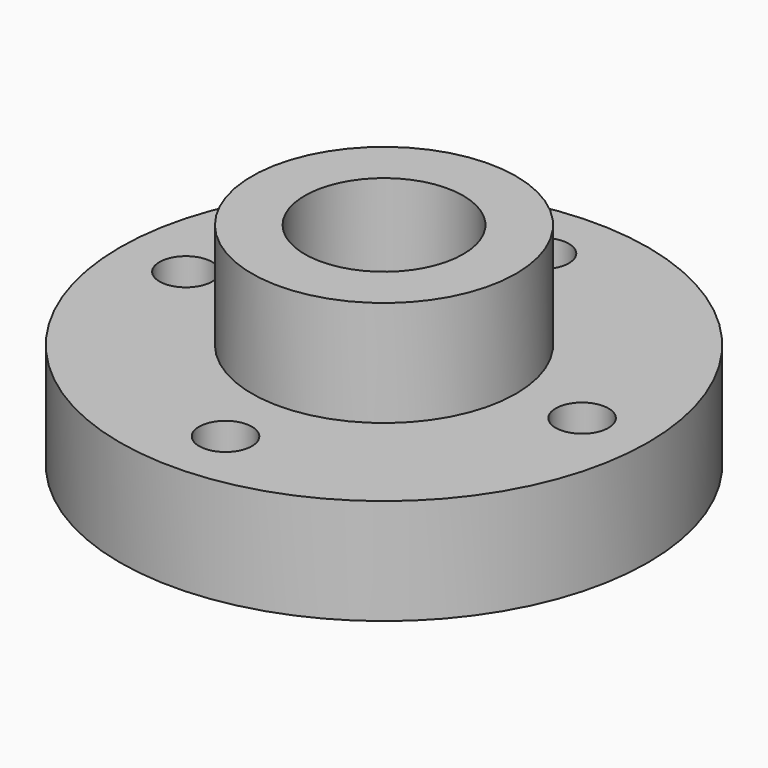
from build123d import *

# Parameters (mm, degrees)
F0_R     = 15.875
F0_R_2   = 9.525
F1_DEPTH = 12.7
F2_R     = 31.75
F2_R_2   = 9.525
F3_DEPTH = 12.7
F5_D     = 6.35


with BuildPart() as f1:
    # F0 (on Top) → F1 (new body)
    with BuildSketch(Plane.XY):
        Circle(F0_R)
        Circle(F0_R_2, mode=Mode.SUBTRACT)
    extrude(amount=F1_DEPTH)

    # F2 (on face) → F3 (join)
    with BuildSketch(Plane(origin=(0, 0, 0), x_dir=(1, 0, 0), z_dir=(0, 0, -1))):
        Circle(F2_R)
        Circle(F2_R_2, mode=Mode.SUBTRACT)
    extrude(amount=F3_DEPTH)

    # F5 (through all)
    with Locations(Plane.XY):
        with Locations((0, 23.8125), (23.8125, 0), (0, -23.8125), (-23.8125, 0)):
            Hole(F5_D / 2)


solid = f1.part
